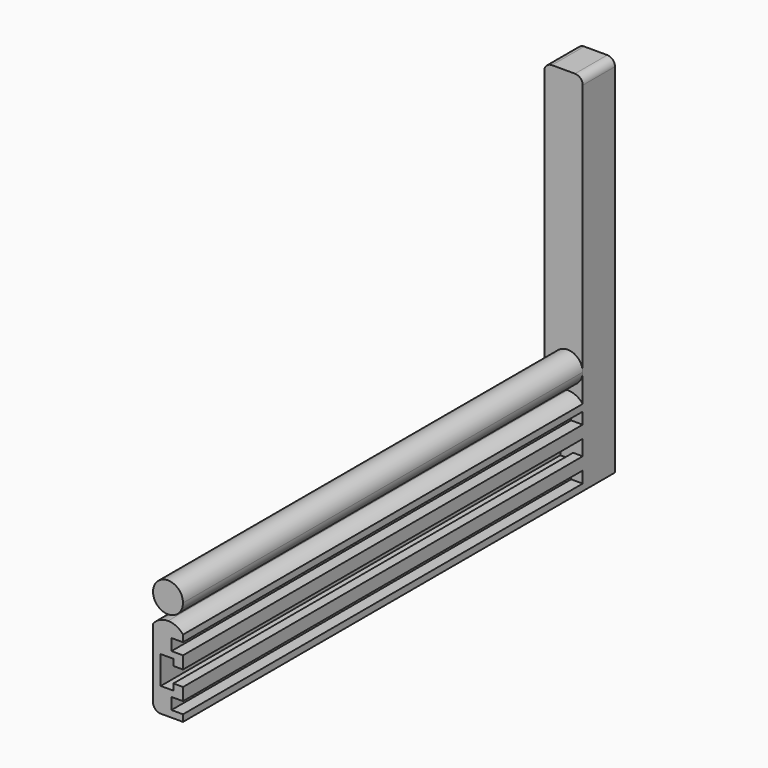
from build123d import *

# Parameters (mm, degrees)
F1_DEPTH = 130
F2_W     = 7.8
F2_H     = 75
F2_H_2   = 20
F3_DEPTH = 10.5
F5_DEPTH = 130
F6_R     = 2
F7_R     = 2


with BuildPart() as f1:
    # F0 (on Front) → F1 (new body)
    with BuildSketch(Plane.XZ):
        Polygon((0, 10), (0, 0), (7.8, 0), (7.8, 1.75), (4.8, 1.75), (4.8, 4.75), (7.8, 4.75), (7.8, 8), (5.3, 8), (5.3, 6.35), (2, 6.35), (2, 10), align=None)
        Polygon((0, 20), (0, 10), (2, 10), (2, 13.65), (5.3, 13.65), (5.3, 12), (7.8, 12), (7.8, 15.25), (4.8, 15.25), (4.8, 18.25), (7.8, 18.25), (7.8, 20), align=None)
    extrude(amount=F1_DEPTH)

    # F2 (on face) → F3 (join)
    with BuildSketch(Plane(origin=(0, 0, 0), x_dir=(-1, 0, 0), z_dir=(0, 1, 0))):
        with Locations((-3.9, 57.5)):
            Rectangle(F2_W, F2_H)
        with Locations((-3.9, 10)):
            Rectangle(F2_W, F2_H_2)
        Polygon((0, 95), (0, 20), (0, 0), (2.2, 0), (2.2, 95), align=None)
    extrude(amount=F3_DEPTH)

    # F4 (on face) → F5 (join, through all)
    with BuildSketch(Plane.XZ):
        with BuildLine():
            Line((3.9, 20), (7.8, 20))
            ThreePointArc((7.8, 20), (6.062812, 21.379122), (3.9, 21.871102))
            Line((3.9, 21.871102), (3.9, 20))
        make_face()
        with BuildLine():
            Line((3.9, 20), (3.9, 21.871102))
            ThreePointArc((3.9, 21.871102), (1.737188, 21.379122), (0, 20))
            Line((0, 20), (3.9, 20))
        make_face()
        with BuildLine():
            ThreePointArc((3.9, 23.371102), (6.657716, 24.513386), (7.8, 27.271102))
            ThreePointArc((7.8, 27.271102), (1.142284, 30.028819), (3.9, 23.371102))
        make_face()
    extrude(amount=F5_DEPTH)

    # F6
    f6_edges = [f1.edges().sort_by_distance(p)[0] for p in [
        (0, -65, 0),
        (7.8, 5.25, 95),
        (-2.2, 5.25, 95),
    ]]
    fillet(f6_edges, radius=F6_R)

    # F7
    f7_edges = [f1.edges().sort_by_distance(p)[0] for p in [
        (-2.2, 5.25, 0),
    ]]
    fillet(f7_edges, radius=F7_R)


solid = f1.part
